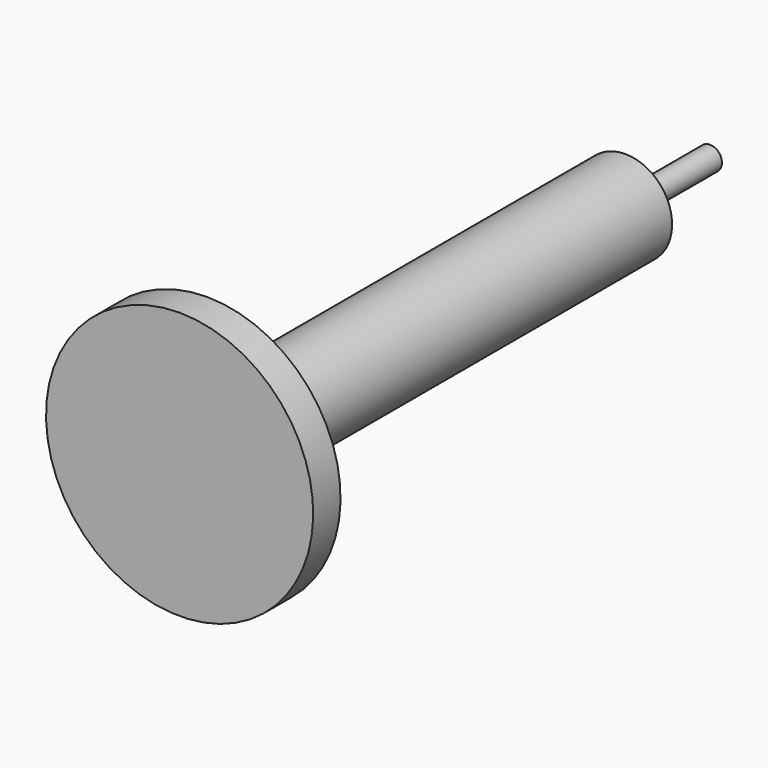
from build123d import *

# Parameters (mm, degrees)
F2_R     = 9.525
F3_DEPTH = 7.7216


with BuildPart() as f1:
    # F0 (on Right) → F1 (revolve)
    with BuildSketch(Plane.YZ):
        Polygon((0, 7.14375), (0, 0), (43.18, 0), (43.18, 0.635), (37.5158, 0.635), (37.5158, 2.5019), (9.5504, 2.5019), (9.5504, 7.14375), align=None)
    revolve(axis=Axis((0, -1.133929, 0), (0, -1, 0)))

    # F2 (on face) → F3 (cut)
    with BuildSketch(Plane.XZ):
        Circle(F2_R)
    extrude(amount=-F3_DEPTH, mode=Mode.SUBTRACT)


solid = f1.part
